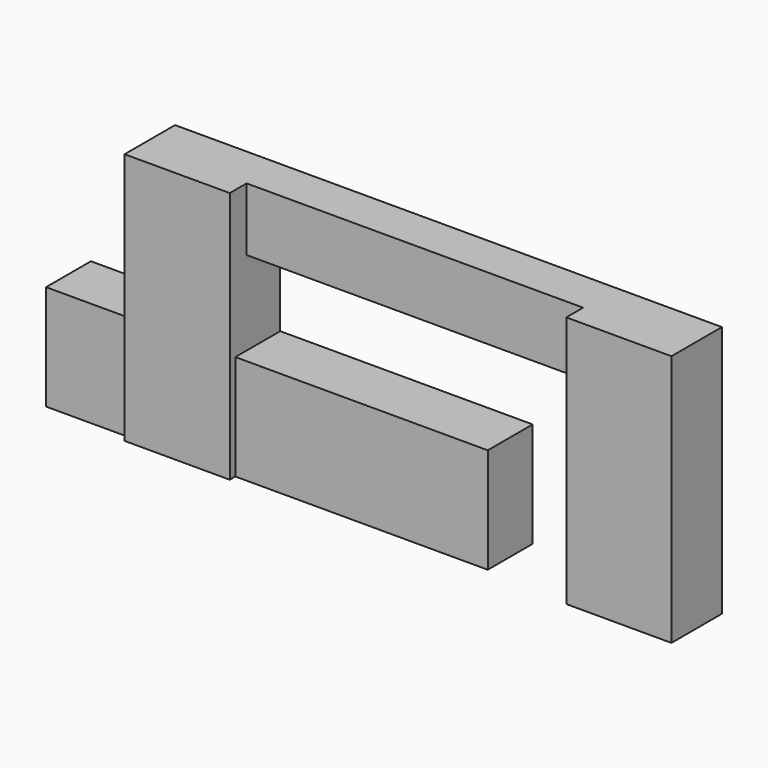
from build123d import *

# Parameters (mm, degrees)
F0_W     = 609.6
F0_H     = 762
F1_DEPTH = 406.4
F2_DEPTH = 457.2
F0_W_2   = 2438.4
F0_H_2   = 457.2
F3_DEPTH = 304.8


with BuildPart() as f1:
    # F0 (on Front) → F1 (new body)
    with BuildSketch(Plane.XZ):
        with Locations((-609.6, 0)):
            Rectangle(F0_W, F0_H)
        Rectangle(F0_W, F0_H)
        with Locations((609.6, 0)):
            Rectangle(F0_W, F0_H)
        with Locations((-1981.2, 0)):
            Rectangle(F0_W, F0_H)
    extrude(amount=F1_DEPTH)

    # F0 (on Front) → F2 (join)
    with BuildSketch(Plane.XZ):
        Polygon((-1676.4, -381), (-914.4, -381), (-914.4, 381), (-914.4, 990.6), (-914.4, 1447.8), (-1676.4, 1447.8), (-1676.4, 381), align=None)
        Polygon((1524, 381), (1524, -381), (2286, -381), (2286, 1447.8), (1524, 1447.8), (1524, 990.6), align=None)
    extrude(amount=F2_DEPTH)

    # F0 (on Front) → F3 (join)
    with BuildSketch(Plane.XZ):
        with Locations((304.8, 1219.2)):
            Rectangle(F0_W_2, F0_H_2)
    extrude(amount=F3_DEPTH)


solid = f1.part
